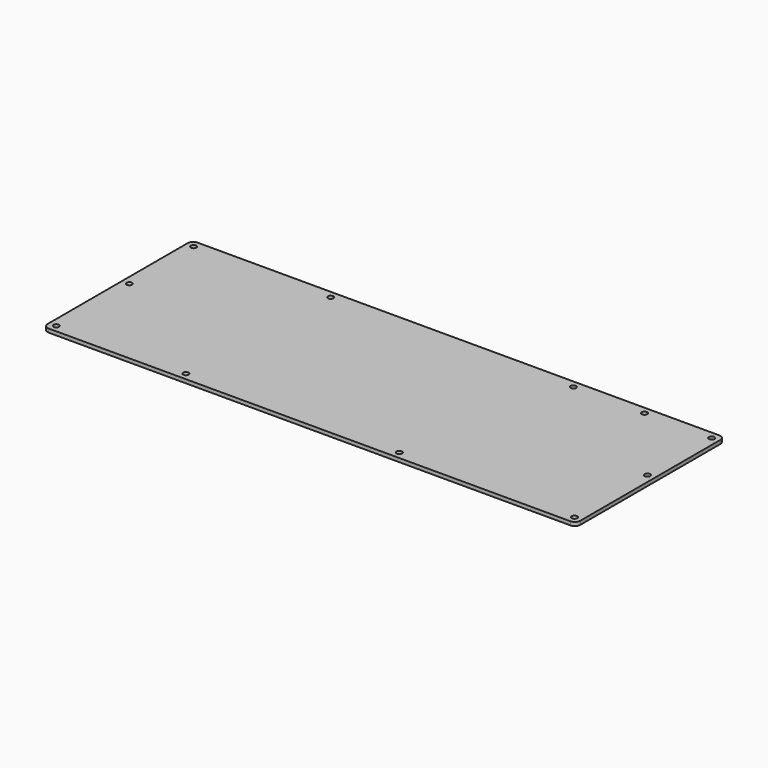
from build123d import *

# Parameters (mm, degrees)
F1_DEPTH = 2
F2_R     = 1.5
F3_DEPTH = 2.001


with BuildPart() as f1:
    # F0 (on Top) → F1 (new body)
    with BuildSketch(Plane.XY):
        with BuildLine():
            ThreePointArc((146, 48), (145.12132, 50.12132), (143, 51))
            Line((143, 51), (-143, 51))
            ThreePointArc((-143, 51), (-145.12132, 50.12132), (-146, 48))
            Line((-146, 48), (-146, -48))
            ThreePointArc((-146, -48), (-145.12132, -50.12132), (-143, -51))
            Line((-143, -51), (143, -51))
            ThreePointArc((143, -51), (145.12132, -50.12132), (146, -48))
            Line((146, -48), (146, 48))
        make_face()
    extrude(amount=F1_DEPTH)

    # F2 (on face) → F3 (cut, through all)
    with BuildSketch(Plane.XY.offset(2)):
        with Locations((-142, 47)):
            Circle(F2_R)
        with Locations((142, 47)):
            Circle(F2_R)
        with Locations((-66.825193, 47)):
            Circle(F2_R)
        with Locations((66.174807, 47)):
            Circle(F2_R)
        with Locations((-142, -47)):
            Circle(F2_R)
        with Locations((142, -47)):
            Circle(F2_R)
        with Locations((-71, -47)):
            Circle(F2_R)
        with Locations((46, -47)):
            Circle(F2_R)
        with Locations((142, 3)):
            Circle(F2_R)
        with Locations((-142, 3)):
            Circle(F2_R)
        with Locations((105.174807, 47)):
            Circle(F2_R)
    extrude(amount=-F3_DEPTH, mode=Mode.SUBTRACT)


solid = f1.part
